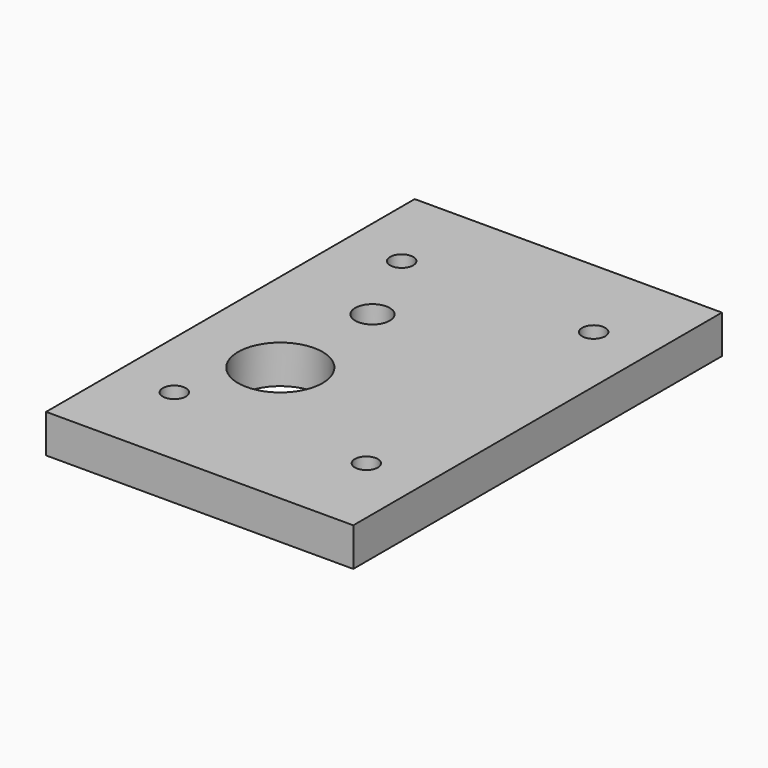
from build123d import *

# Parameters (mm, degrees)
SKETCH_W   = 80
SKETCH_H   = 120
SKETCH_R   = 4.5
SKETCH_R_2 = 11
SKETCH_R_3 = 3
PAD_DEPTH  = 10


with BuildPart() as part:
    # Sketch → Pad (new body)
    with BuildSketch(Plane.XY):
        with Locations((15, -15)):
            Rectangle(SKETCH_W, SKETCH_H)
        Circle(SKETCH_R, mode=Mode.SUBTRACT)
        with Locations((0, -30)):
            Circle(SKETCH_R_2, mode=Mode.SUBTRACT)
        with Locations((-10, -52)):
            Circle(SKETCH_R_3, mode=Mode.SUBTRACT)
        with Locations((40, -52)):
            Circle(SKETCH_R_3, mode=Mode.SUBTRACT)
        with Locations((40, 22)):
            Circle(SKETCH_R_3, mode=Mode.SUBTRACT)
        with Locations((-10, 22)):
            Circle(SKETCH_R_3, mode=Mode.SUBTRACT)
    extrude(amount=PAD_DEPTH)


solid = part.part
